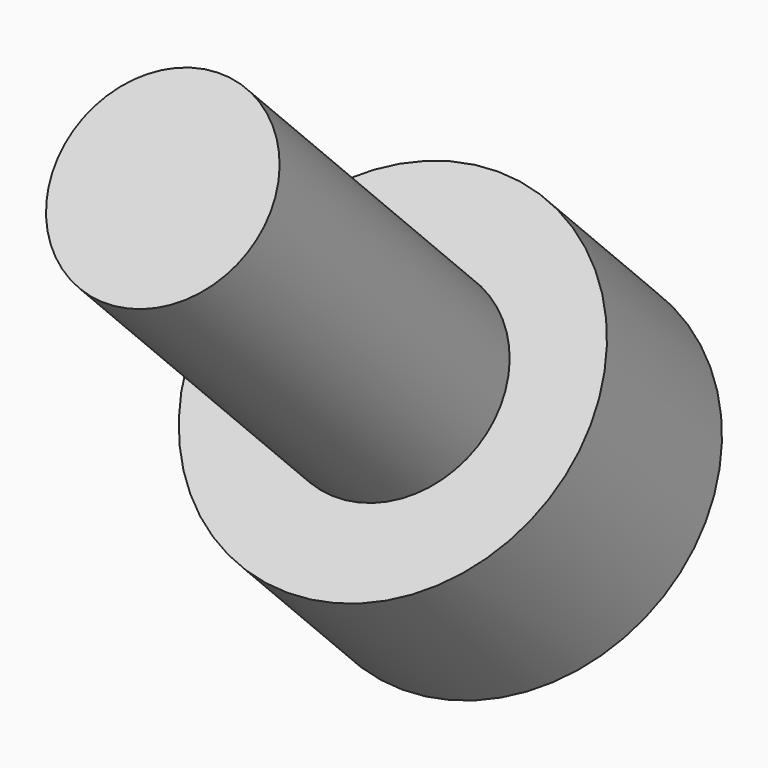
from build123d import *

# Parameters (mm, degrees)
SKETCH036_R             = 2.75
PAD021_DEPTH            = 3
SKETCH037_R             = 1.5
PAD022_DEPTH            = 6
POCKET017_DEPTH         = 4
BODY010_PLACEMENT_ANGLE = 225


with BuildPart() as part:
    # Sketch036 → Pad021 (new body)
    with BuildSketch(Plane.XY):
        Circle(SKETCH036_R)
    extrude(amount=PAD021_DEPTH)

    # Sketch037 (on Face2 of Pad021) → Pad022 (join)
    with BuildSketch(Plane(origin=(0, 0, 0), x_dir=(1, 0, 0), z_dir=(0, 0, -1))):
        Circle(SKETCH037_R)
    extrude(amount=PAD022_DEPTH)

    # Sketch038 (on DatumPlane) → Pocket017 (cut)
    with BuildSketch(Plane.XY.offset(3)):
        Polygon((0.721688, -1.25), (1.443376, 0), (0.721688, 1.25), (-0.721688, 1.25), (-1.443376, 0), (-0.721688, -1.25), align=None)
    extrude(amount=-POCKET017_DEPTH, mode=Mode.SUBTRACT)


with BuildPart() as part_1:
    # Body010 placement: moved
    add(part.part.moved(Location((-78.5, -61.871843, 6.010408))).rotate(Axis((-78.5, -61.871843, 6.010408), (1, 0, 0)), BODY010_PLACEMENT_ANGLE))


solid = part_1.part
